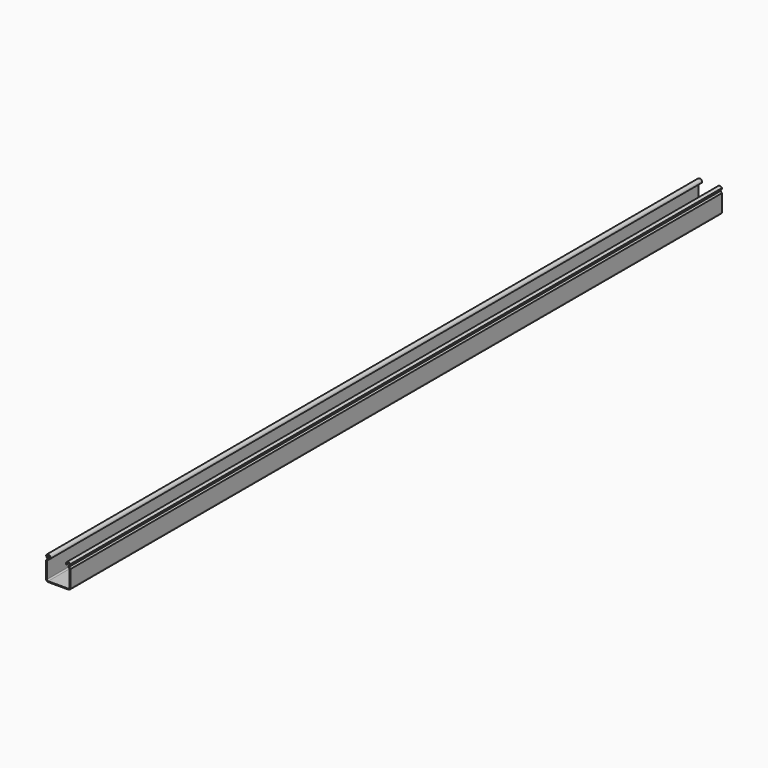
from build123d import *

# Parameters (mm, degrees)
F1_DEPTH = 2000


with BuildPart() as f1:
    # F0 (on Front) → F1 (new body)
    with BuildSketch(Plane.XZ):
        with BuildLine():
            Line((-25, 0), (0, 0))
            Line((0, 0), (25, 0))
            ThreePointArc((25, 0), (28.535534, 1.464466), (30, 5))
            Line((30, 5), (30, 46))
            Line((30, 46), (27, 50))
            Line((27, 50), (27.798945, 51.864205))
            ThreePointArc((27.798945, 51.864205), (28.000636, 52.22595), (28.272511, 52.538396))
            ThreePointArc((28.272511, 52.538396), (29.647293, 54.571329), (30, 57))
            ThreePointArc((30, 57), (22.611278, 59.631425), (19.08164, 52.627194))
            Line((19.08164, 52.627194), (21.016316, 53.134174))
            ThreePointArc((21.016316, 53.134174), (23.152059, 57.686868), (28.01478, 56.405318))
            ThreePointArc((28.01478, 56.405318), (27.697789, 55.094007), (26.907788, 54.000425))
            ThreePointArc((26.907788, 54.000425), (26.364036, 53.375534), (25.960655, 52.652043))
            Line((25.960655, 52.652043), (25.16171, 50.787839))
            Line((25.16171, 50.787839), (24.706223, 49.725036))
            Line((24.706223, 49.725036), (28, 45.333333))
            Line((28, 45.333333), (28, 5))
            ThreePointArc((28, 5), (27.12132, 2.87868), (25, 2))
            Line((25, 2), (0, 2))
            Line((0, 2), (-25, 2))
            ThreePointArc((-25, 2), (-27.12132, 2.87868), (-28, 5))
            Line((-28, 5), (-28, 45.333333))
            Line((-28, 45.333333), (-24.706223, 49.725036))
            Line((-24.706223, 49.725036), (-25.16171, 50.787839))
            Line((-25.16171, 50.787839), (-25.960655, 52.652043))
            ThreePointArc((-25.960655, 52.652043), (-26.364036, 53.375534), (-26.907788, 54.000425))
            ThreePointArc((-26.907788, 54.000425), (-27.697789, 55.094007), (-28.01478, 56.405318))
            ThreePointArc((-28.01478, 56.405318), (-23.152059, 57.686868), (-21.016316, 53.134174))
            Line((-21.016316, 53.134174), (-19.08164, 52.627194))
            ThreePointArc((-19.08164, 52.627194), (-22.611278, 59.631425), (-30, 57))
            ThreePointArc((-30, 57), (-29.647293, 54.571329), (-28.272511, 52.538396))
            ThreePointArc((-28.272511, 52.538396), (-28.000636, 52.22595), (-27.798945, 51.864205))
            Line((-27.798945, 51.864205), (-27, 50))
            Line((-27, 50), (-30, 46))
            Line((-30, 46), (-30, 5))
            ThreePointArc((-30, 5), (-28.535534, 1.464466), (-25, 0))
        make_face()
    extrude(amount=-F1_DEPTH)


solid = f1.part
